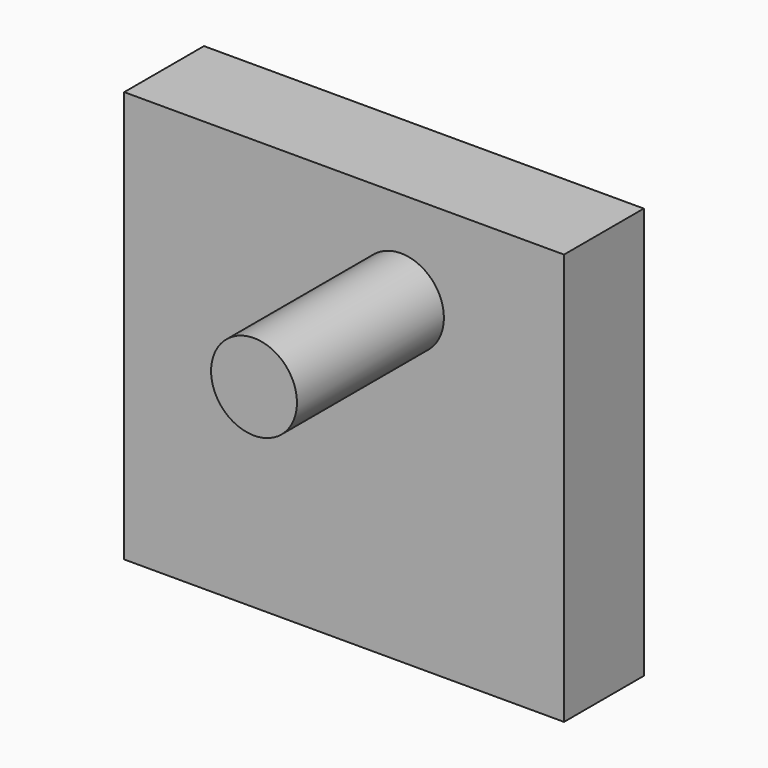
from build123d import *

# Parameters (mm, degrees)
F0_W     = 60.8227113262
F0_H     = 39.1870532185
F1_DEPTH = 56.896
F2_W     = 60.8227113262
F2_H     = 56.896
F2_R     = 6.5577681914
F2_R_2   = 5.6744687259
F2_R_3   = 5.9393970123
F3_DEPTH = 25.4


with BuildPart() as f1:
    # F0 (on Top) → F1 (new body)
    with BuildSketch(Plane.XY):
        with Locations((20.7324544899, -13.9315342531)):
            Rectangle(F0_W, F0_H)
    extrude(amount=F1_DEPTH)

    # F2 (on face) → F3 (cut)
    with BuildSketch(Plane.XZ.offset(33.5250608623)):
        with Locations((20.7324544899, 28.448)):
            Rectangle(F2_W, F2_H)
        with Locations((21.2166681886, 26.3862758875)):
            Circle(F2_R, mode=Mode.SUBTRACT)
        with Locations((9.1111352667, 42.6530838013)):
            Circle(F2_R_2, mode=Mode.SUBTRACT)
        with Locations((28.5934749991, 43.7879785895)):
            Circle(F2_R_3, mode=Mode.SUBTRACT)
        with Locations((21.2166681886, 26.3862758875)):
            Circle(F2_R)
        with Locations((9.1111352667, 42.6530838013)):
            Circle(F2_R_2)
    extrude(amount=-F3_DEPTH, mode=Mode.SUBTRACT)


solid = f1.part
